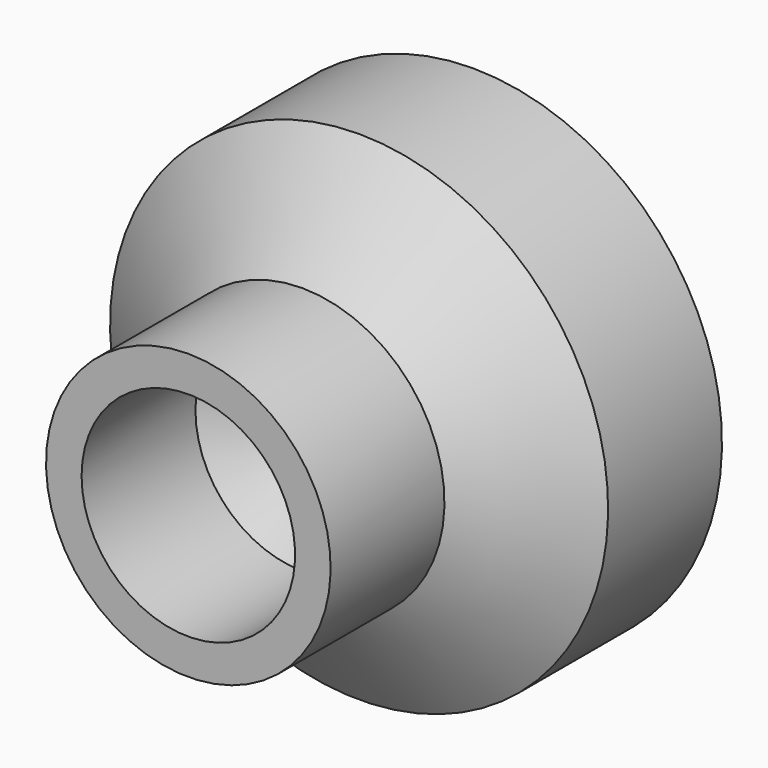
from build123d import *

# Parameters (mm, degrees)
F3_D     = 6
F3_DEPTH = 4
F3_TIP   = 1.8025818571


with BuildPart() as f1:
    # F0 (on Right) → F1 (revolve)
    with BuildSketch(Plane.YZ):
        Polygon((-4, 4), (-4, 0), (6, 0), (6, 7), (2, 7), (0, 4), align=None)
    revolve(axis=Axis((0, 1, 0), (0, 1, 0)))

    # F3
    with Locations(Plane.XZ.offset(4)):
        with Locations((0, 0)):
            Hole(F3_D / 2, depth=F3_DEPTH)
            with Locations((0, 0, -(F3_DEPTH + F3_TIP / 2))):  # 118° drill point
                Cone(0, F3_D / 2, F3_TIP, mode=Mode.SUBTRACT)


solid = f1.part
